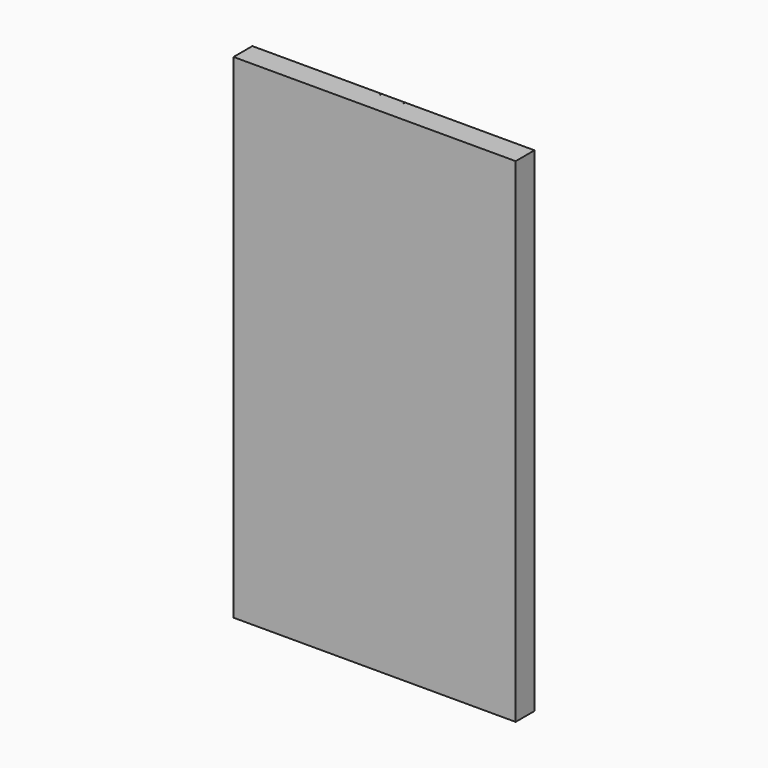
from build123d import *

# Parameters (mm, degrees)
F0_W     = 120
F0_H     = 210
F1_DEPTH = 10
F2_W     = 0.1
F2_H     = 200
F3_DEPTH = 1


with BuildPart() as f1:
    # F0 (on Front) → F1 (new body)
    with BuildSketch(Plane.XZ):
        with Locations((-60, 105)):
            Rectangle(F0_W, F0_H)
    extrude(amount=F1_DEPTH)

    # F2 (on face) → F3 (cut)
    with BuildSketch(Plane(origin=(0, 0, 0), x_dir=(-1, 0, 0), z_dir=(0, 1, 0))):
        with Locations((55, 110)):
            Rectangle(F2_W, F2_H)
        with Locations((65, 110)):
            Rectangle(F2_W, F2_H)
    extrude(amount=-F3_DEPTH, mode=Mode.SUBTRACT)


solid = f1.part
